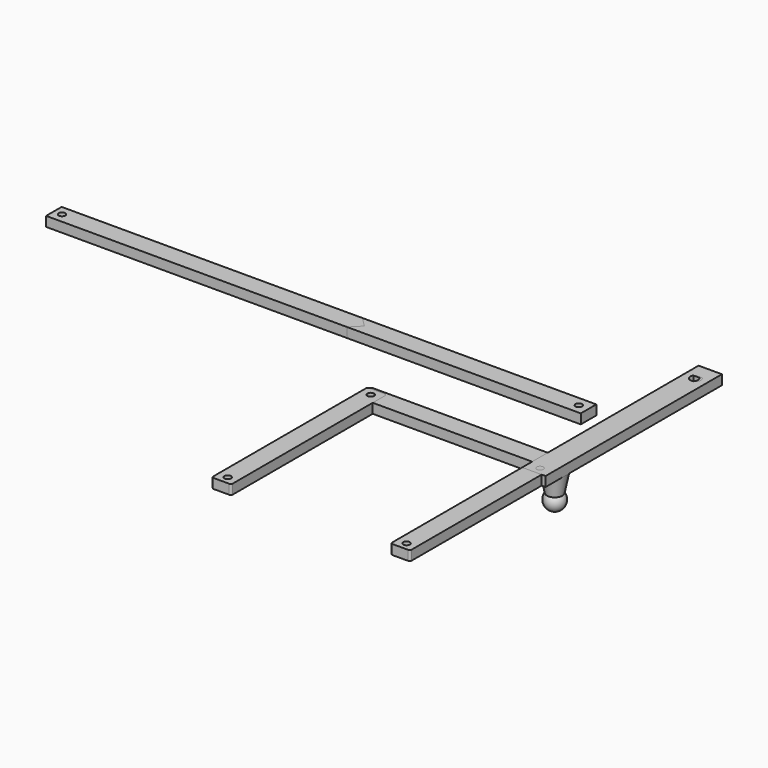
from build123d import *

# Parameters (mm, degrees)
CYLINDER001_R             = 1.7
CYLINDER001_DEPTH         = 10
CYLINDER_R                = 1.7
CYLINDER_DEPTH            = 10
BOX_W                     = 100
BOX_H                     = 10
BOX_DEPTH                 = 5
FILLET_R                  = 1
FILLET001_R               = 1
FILLET002_R               = 1
FILLET003_R               = 1
FILLET005_R               = 1
FILLET004_R               = 1
FILLET004_PLACEMENT_ANGLE = -90
FILLET007_R               = 1
FILLET006_R               = 1
FILLET006_PLACEMENT_ANGLE = 90
BOX001_W                  = 10
BOX001_H                  = 10
BOX001_DEPTH              = 10
CYLINDER002_R             = 2.7
CYLINDER002_DEPTH         = 10
FILLET009_R               = 1
FILLET008_R               = 1
FILLET008_PLACEMENT_ANGLE = 90
FILLET011_R               = 1
FILLET010_R               = 1
FILLET010_PLACEMENT_ANGLE = -90
CYLINDER004_R             = 1.7
CYLINDER004_DEPTH         = 10
BOX003_W                  = 400
BOX003_H                  = 400
BOX003_DEPTH              = 10
BOX003_PLACEMENT_ANGLE    = -45
BOX004_W                  = 275
BOX004_H                  = 10
BOX004_DEPTH              = 5
CYLINDER003_R             = 1.7
CYLINDER003_DEPTH         = 10
BOX005_W                  = 400
BOX005_H                  = 400
BOX005_DEPTH              = 10
BOX005_PLACEMENT_ANGLE    = -45
BOX002_W                  = 275
BOX002_H                  = 10
BOX002_DEPTH              = 5
CYLINDER006_R             = 1.7
CYLINDER006_DEPTH         = 10
BOX007_W                  = 10
BOX007_H                  = 10
BOX007_DEPTH              = 10
CYLINDER005_R             = 2.7
CYLINDER005_DEPTH         = 10
BOX006_W                  = 12
BOX006_H                  = 113.4
BOX006_DEPTH              = 5


with BuildPart() as cylinder001:
    # Cylinder001 → Cylinder001 (new body)
    with BuildSketch(Plane(origin=(96, 5, -2), x_dir=(1, 0, 0), z_dir=(0, 0, 1))):
        Circle(CYLINDER001_R)
    extrude(amount=CYLINDER001_DEPTH)


with BuildPart() as cylinder:
    # Cylinder → Cylinder (new body)
    with BuildSketch(Plane(origin=(4, 5, -1), x_dir=(1, 0, 0), z_dir=(0, 0, 1))):
        Circle(CYLINDER_R)
    extrude(amount=CYLINDER_DEPTH)


with BuildPart() as fillet001:
    # Box → Box (new body)
    with BuildSketch(Plane.XY):
        with Locations((50, 5)):
            Rectangle(BOX_W, BOX_H)
    extrude(amount=BOX_DEPTH)

    # Cut: cut Cylinder
    add(cylinder.part, mode=Mode.SUBTRACT)

    # Cut001: cut Cylinder001
    add(cylinder001.part, mode=Mode.SUBTRACT)

    # Fillet
    fillet_edges = [fillet001.edges().sort_by_distance(p)[0] for p in [
        (100, 10, 2.5),
    ]]
    fillet(fillet_edges, radius=FILLET_R)

    # Fillet001
    fillet001_edges = [fillet001.edges().sort_by_distance(p)[0] for p in [
        (100, 0, 2.5),
    ]]
    fillet(fillet001_edges, radius=FILLET001_R)


with BuildPart() as fillet003:
    # Fillet002 base: copy of Fillet001
    add(fillet001.part)

    # Fillet002
    fillet002_edges = [fillet003.edges().sort_by_distance(p)[0] for p in [
        (0, 0, 2.5),
    ]]
    fillet(fillet002_edges, radius=FILLET002_R)

    # Fillet003
    fillet003_edges = [fillet003.edges().sort_by_distance(p)[0] for p in [
        (0, 10, 2.5),
    ]]
    fillet(fillet003_edges, radius=FILLET003_R)


with BuildPart() as fillet004:
    # Fillet005 base: copy of Fillet001
    add(fillet001.part)

    # Fillet005
    fillet005_edges = [fillet004.edges().sort_by_distance(p)[0] for p in [
        (0, 0, 2.5),
    ]]
    fillet(fillet005_edges, radius=FILLET005_R)

    # Fillet004
    fillet004_edges = [fillet004.edges().sort_by_distance(p)[0] for p in [
        (0, 10, 2.5),
    ]]
    fillet(fillet004_edges, radius=FILLET004_R)


with BuildPart() as fillet004_1:
    # Fillet004 placement: moved
    add(fillet004.part.moved(Location((-1, 9, 0))).rotate(Axis((-1, 9, 0), (0, 0, 1)), FILLET004_PLACEMENT_ANGLE))


with BuildPart() as fillet006:
    # Fillet007 base: copy of Fillet001
    add(fillet001.part)

    # Fillet007
    fillet007_edges = [fillet006.edges().sort_by_distance(p)[0] for p in [
        (0, 0, 2.5),
    ]]
    fillet(fillet007_edges, radius=FILLET007_R)

    # Fillet006
    fillet006_edges = [fillet006.edges().sort_by_distance(p)[0] for p in [
        (0, 10, 2.5),
    ]]
    fillet(fillet006_edges, radius=FILLET006_R)


with BuildPart() as fillet006_1:
    # Fillet006 placement: moved
    add(fillet006.part.moved(Location((101, -91, 0))).rotate(Axis((101, -91, 0), (0, 0, 1)), FILLET006_PLACEMENT_ANGLE))


with BuildPart() as cube001:
    # Box001 → Box001 (new body)
    with BuildSketch(Plane(origin=(90.8, 99, -3), x_dir=(1, 0, 0), z_dir=(0, 0, 1))):
        with Locations((5, 5)):
            Rectangle(BOX001_W, BOX001_H)
    extrude(amount=BOX001_DEPTH)


with BuildPart() as cut002:
    # Cylinder002 → Cylinder002 (new body)
    with BuildSketch(Plane(origin=(96, 97, -3), x_dir=(1, 0, 0), z_dir=(0, 0, 1))):
        Circle(CYLINDER002_R)
    extrude(amount=CYLINDER002_DEPTH)

    # Cut002: cut Cube001
    add(cube001.part, mode=Mode.SUBTRACT)


with BuildPart() as cut003:
    # Fillet009 base: copy of Fillet001
    add(fillet001.part)

    # Fillet009
    fillet009_edges = [cut003.edges().sort_by_distance(p)[0] for p in [
        (0, 0, 2.5),
    ]]
    fillet(fillet009_edges, radius=FILLET009_R)

    # Fillet008
    fillet008_edges = [cut003.edges().sort_by_distance(p)[0] for p in [
        (0, 10, 2.5),
    ]]
    fillet(fillet008_edges, radius=FILLET008_R)


with BuildPart() as cut003_1:
    # Fillet008 placement: moved
    add(cut003.part.moved(Location((101, 1, 0))).rotate(Axis((101, 1, 0), (0, 0, 1)), FILLET008_PLACEMENT_ANGLE))

    # Cut003: cut Cut002
    add(cut002.part, mode=Mode.SUBTRACT)


with BuildPart() as fillet010:
    # Fillet011 base: copy of Fillet001
    add(fillet001.part)

    # Fillet011
    fillet011_edges = [fillet010.edges().sort_by_distance(p)[0] for p in [
        (0, 0, 2.5),
    ]]
    fillet(fillet011_edges, radius=FILLET011_R)

    # Fillet010
    fillet010_edges = [fillet010.edges().sort_by_distance(p)[0] for p in [
        (0, 10, 2.5),
    ]]
    fillet(fillet010_edges, radius=FILLET010_R)


with BuildPart() as fillet010_1:
    # Fillet010 placement: moved
    add(fillet010.part.moved(Location((-1, 9, 0))).rotate(Axis((-1, 9, 0), (0, 0, 1)), FILLET010_PLACEMENT_ANGLE))


with BuildPart() as cylinder004:
    # Cylinder004 → Cylinder004 (new body)
    with BuildSketch(Plane(origin=(75, 50, -2), x_dir=(1, 0, 0), z_dir=(0, 0, 1))):
        Circle(CYLINDER004_R)
    extrude(amount=CYLINDER004_DEPTH)


with BuildPart() as cube003:
    # Box003 → Box003 (new body)
    with BuildSketch(Plane.XY):
        with Locations((200, 200)):
            Rectangle(BOX003_W, BOX003_H)
    extrude(amount=BOX003_DEPTH)


with BuildPart() as cube003_1:
    # Box003 placement: moved
    add(cube003.part.moved(Location((-601, 50, -3))).rotate(Axis((-601, 50, -3), (0, 0, 1)), BOX003_PLACEMENT_ANGLE))


with BuildPart() as long_arm_part_a:
    # Box004 → Box004 (new body)
    with BuildSketch(Plane(origin=(-195, 45, 0), x_dir=(1, 0, 0), z_dir=(0, 0, 1))):
        with Locations((137.5, 5)):
            Rectangle(BOX004_W, BOX004_H)
    extrude(amount=BOX004_DEPTH)

    # Cut004: cut Cube003
    add(cube003_1.part, mode=Mode.SUBTRACT)

    # Cut005: cut Cylinder004
    add(cylinder004.part, mode=Mode.SUBTRACT)


with BuildPart() as cylinder003:
    # Cylinder003 → Cylinder003 (new body)
    with BuildSketch(Plane(origin=(-190.8, 50, -2), x_dir=(1, 0, 0), z_dir=(0, 0, 1))):
        Circle(CYLINDER003_R)
    extrude(amount=CYLINDER003_DEPTH)


with BuildPart() as cube005:
    # Box005 → Box005 (new body)
    with BuildSketch(Plane.XY):
        with Locations((200, 200)):
            Rectangle(BOX005_W, BOX005_H)
    extrude(amount=BOX005_DEPTH)


with BuildPart() as cube005_1:
    # Box005 placement: moved
    add(cube005.part.moved(Location((-601, 50, -3))).rotate(Axis((-601, 50, -3), (0, 0, 1)), BOX005_PLACEMENT_ANGLE))


with BuildPart() as long_arm_part_b:
    # Box002 → Box002 (new body)
    with BuildSketch(Plane(origin=(-195, 45, 0), x_dir=(1, 0, 0), z_dir=(0, 0, 1))):
        with Locations((137.5, 5)):
            Rectangle(BOX002_W, BOX002_H)
    extrude(amount=BOX002_DEPTH)

    # Common: intersect Cube005
    add(cube005_1.part, mode=Mode.INTERSECT)

    # Cut006: cut Cylinder003
    add(cylinder003.part, mode=Mode.SUBTRACT)


with BuildPart() as cone:
    # Cone → Cone (revolve)
    with BuildSketch(Plane(origin=(97, 7, -10), x_dir=(1, 0, 0), z_dir=(0, -1, 0))):
        Polygon((0, 0), (4, 0), (6, 10), (0, 10), align=None)
    revolve(axis=Axis((97, 7, -10), (0, 0, 1)))


with BuildPart() as cylinder006:
    # Cylinder006 → Cylinder006 (new body)
    with BuildSketch(Plane(origin=(97, -2.4, -1), x_dir=(1, 0, 0), z_dir=(0, 0, 1))):
        Circle(CYLINDER006_R)
    extrude(amount=CYLINDER006_DEPTH)


with BuildPart() as cube007:
    # Box007 → Box007 (new body)
    with BuildSketch(Plane(origin=(91.8, 99, -3), x_dir=(1, 0, 0), z_dir=(0, 0, 1))):
        with Locations((5, 5)):
            Rectangle(BOX007_W, BOX007_H)
    extrude(amount=BOX007_DEPTH)


with BuildPart() as cut007:
    # Cylinder005 → Cylinder005 (new body)
    with BuildSketch(Plane(origin=(97, 97, -3), x_dir=(1, 0, 0), z_dir=(0, 0, 1))):
        Circle(CYLINDER005_R)
    extrude(amount=CYLINDER005_DEPTH)

    # Cut007: cut Cube007
    add(cube007.part, mode=Mode.SUBTRACT)


with BuildPart() as cut007_1:
    # Cut007 placement: moved
    add(cut007.part.moved(Location((0, 2, 0))))


with BuildPart() as fusion:
    # Box006 → Box006 (new body)
    with BuildSketch(Plane(origin=(91, -5, 0), x_dir=(1, 0, 0), z_dir=(0, 0, 1))):
        with Locations((6, 56.7)):
            Rectangle(BOX006_W, BOX006_H)
    extrude(amount=BOX006_DEPTH)

    # Cut008: cut Cut007
    add(cut007_1.part, mode=Mode.SUBTRACT)


with BuildPart() as fusion_1:
    # Cut008 placement: moved
    add(fusion.part.moved(Location((0, -1.4, 0))))

    # Cut009: cut Cylinder006
    add(cylinder006.part, mode=Mode.SUBTRACT)

    # Fusion: union Cone
    add(cone.part)


with BuildPart() as fusion001:
    # Sphere → Sphere (revolve)
    with BuildSketch(Plane(origin=(97, 7, -13), x_dir=(1, 0, 0), z_dir=(0, -1, 0))):
        with BuildLine():
            ThreePointArc((0, -5), (5, 0), (0, 5))
            Line((0, 5), (0, -5))
        make_face()
    revolve(axis=Axis((97, 7, -13), (0, 0, 1)))

    # Fusion001: union Fusion
    add(fusion_1.part)


solid = Compound([fillet003.part, fillet004_1.part, fillet006_1.part, cut003_1.part, fillet010_1.part, long_arm_part_a.part, long_arm_part_b.part, fusion001.part])
